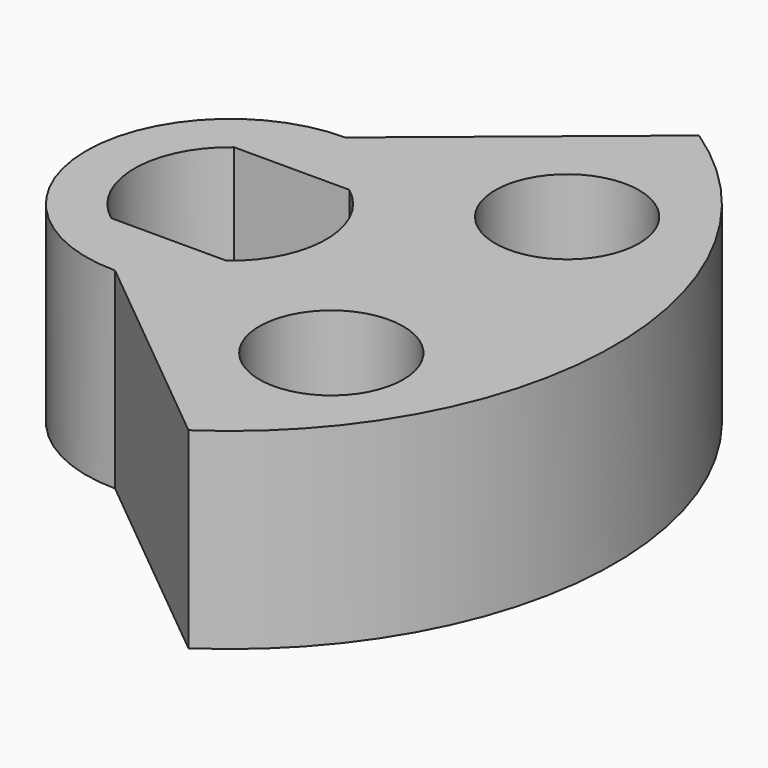
from build123d import *

# Parameters (mm, degrees)
F0_R     = 1.5
F1_DEPTH = 4


with BuildPart() as f1:
    # F0 (on Top) → F1 (new body)
    with BuildSketch(Plane.XY):
        with BuildLine():
            ThreePointArc((0, 3), (2.12132, 2.12132), (3, 0))
            ThreePointArc((3, 0), (2.12132, -2.12132), (0, -3))
            Line((0, -3), (4.448474, -6.649141))
            ThreePointArc((4.448474, -6.649141), (8, 0), (4.448474, 6.649141))
            Line((4.448474, 6.649141), (0, 3))
        make_face()
        with Locations((4.562768, -3.071017)):
            Circle(F0_R, mode=Mode.SUBTRACT)
        with Locations((4.562768, 3.071017)):
            Circle(F0_R, mode=Mode.SUBTRACT)
        with BuildLine():
            ThreePointArc((0, -3), (2.12132, -2.12132), (3, 0))
            ThreePointArc((3, 0), (2.12132, 2.12132), (0, 3))
            ThreePointArc((0, 3), (-3, 0), (0, -3))
        make_face()
        with BuildLine():
            ThreePointArc((1.2, 1.6), (2, 0), (1.2, -1.6))
            Line((1.2, -1.6), (-1.2, -1.6))
            ThreePointArc((-1.2, -1.6), (-2, 0), (-1.2, 1.6))
            Line((-1.2, 1.6), (1.2, 1.6))
        make_face(mode=Mode.SUBTRACT)
    extrude(amount=F1_DEPTH)


solid = f1.part
